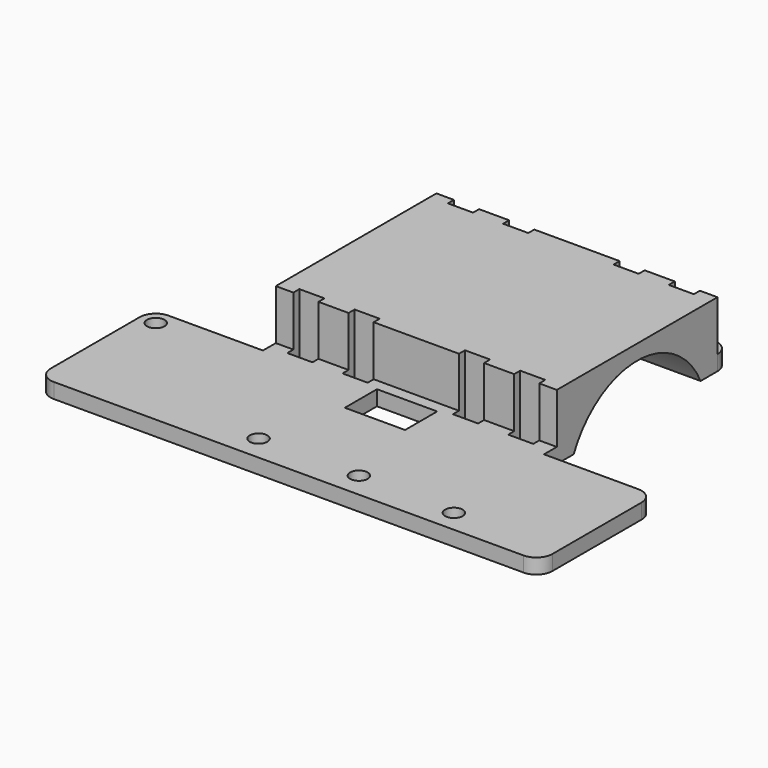
from build123d import *

# Parameters (mm, degrees)
F0_W     = 10
F0_H     = 40
F1_DEPTH = 3
F2_DEPTH = 10
F4_DEPTH = 56
F5_DEPTH = 10
F6_START = -7
F0_R     = 1.75
F6_DEPTH = 3
F7_R     = 3.2


with BuildPart() as f1:
    # F0 (on Top) → F1 (new body)
    with BuildSketch(Plane.XY):
        with Locations((0, 14.3)):
            Rectangle(F0_W, F0_H)
        Polygon((-28, 14.3), (-28, -5.7), (-24.5, -5.7), (-24.5, -4.2), (-19.5, -4.2), (-19.5, -5.7), (-13.5, -5.7), (-13.5, -4.2), (-8.5, -4.2), (-8.5, -5.7), (-5, -5.7), (-5, 34.3), (-8.5, 34.3), (-8.5, 32.8), (-13.5, 32.8), (-13.5, 34.3), (-19.5, 34.3), (-19.5, 32.8), (-24.5, 32.8), (-24.5, 34.3), (-28, 34.3), align=None)
        Polygon((24.5, -5.7), (28, -5.7), (28, 34.3), (24.5, 34.3), (24.5, 32.8), (19.5, 32.8), (19.5, 34.3), (13.5, 34.3), (13.5, 32.8), (8.5, 32.8), (8.5, 34.3), (5, 34.3), (5, -5.7), (8.5, -5.7), (8.5, -4.2), (13.5, -4.2), (13.5, -5.7), (19.5, -5.7), (19.5, -4.2), (24.5, -4.2), align=None)
    extrude(amount=F1_DEPTH)

    # F0 (on Top) → F2 (join)
    with BuildSketch(Plane.XY):
        Polygon((-28, 14.3), (-28, -5.7), (-24.5, -5.7), (-24.5, -4.2), (-19.5, -4.2), (-19.5, -5.7), (-13.5, -5.7), (-13.5, -4.2), (-8.5, -4.2), (-8.5, -5.7), (-5, -5.7), (-5, 34.3), (-8.5, 34.3), (-8.5, 32.8), (-13.5, 32.8), (-13.5, 34.3), (-19.5, 34.3), (-19.5, 32.8), (-24.5, 32.8), (-24.5, 34.3), (-28, 34.3), align=None)
        Polygon((24.5, -5.7), (28, -5.7), (28, 34.3), (24.5, 34.3), (24.5, 32.8), (19.5, 32.8), (19.5, 34.3), (13.5, 34.3), (13.5, 32.8), (8.5, 32.8), (8.5, 34.3), (5, 34.3), (5, -5.7), (8.5, -5.7), (8.5, -4.2), (13.5, -4.2), (13.5, -5.7), (19.5, -5.7), (19.5, -4.2), (24.5, -4.2), align=None)
    extrude(amount=-F2_DEPTH)

    # F3 (on face) → F4 (cut, through all)
    with BuildSketch(Plane.YZ.offset(28)):
        with BuildLine():
            Line((-1.5113883008, -10), (30.1113883008, -10))
            ThreePointArc((30.1113883008, -10), (14.3, 0), (-1.5113883008, -10))
        make_face()
    extrude(amount=-F4_DEPTH, mode=Mode.SUBTRACT)

    # F0 (on Top) → F5 (join, through all)
    with BuildSketch(Plane.XY):
        with Locations((0, 14.3)):
            Rectangle(F0_W, F0_H)
    extrude(amount=-F5_DEPTH)

    # F0 (on Top) → F6 (join)
    with BuildSketch(Plane.XY.offset(F6_START)):
        Polygon((-28, 37.5), (-28, 34.3), (-24.5, 34.3), (-24.5, 35.8), (-19.5, 35.8), (-19.5, 34.3), (-13.5, 34.3), (-13.5, 35.8), (-8.5, 35.8), (-8.5, 34.3), (-5, 34.3), (5, 34.3), (8.5, 34.3), (8.5, 35.8), (13.5, 35.8), (13.5, 34.3), (19.5, 34.3), (19.5, 35.8), (24.5, 35.8), (24.5, 34.3), (28, 34.3), (28, 37.5), align=None)
        Polygon((-28, -5.7), (-28, -8.9), (-6, -8.9), (-6, -8), (6, -8), (6, -8.9), (28, -8.9), (28, -5.7), (24.5, -5.7), (24.5, -7.2), (19.5, -7.2), (19.5, -5.7), (13.5, -5.7), (13.5, -7.2), (8.5, -7.2), (8.5, -5.7), (5, -5.7), (-5, -5.7), (-8.5, -5.7), (-8.5, -7.2), (-13.5, -7.2), (-13.5, -5.7), (-19.5, -5.7), (-19.5, -7.2), (-24.5, -7.2), (-24.5, -5.7), align=None)
        Polygon((-50, -37.5), (-28, -37.5), (0, -37.5), (28, -37.5), (50, -37.5), (50, -8.9), (28, -8.9), (6, -8.9), (6, -16), (-6, -16), (-6, -8.9), (-28, -8.9), (-50, -8.9), align=None)
        with Locations((-10, -32.5)):
            Circle(F0_R, mode=Mode.SUBTRACT)
        with Locations((-46.8, -12.1)):
            Circle(F0_R, mode=Mode.SUBTRACT)
        with Locations((10, -32.5)):
            Circle(F0_R, mode=Mode.SUBTRACT)
        with Locations((29.375, -33.055)):
            Circle(F0_R, mode=Mode.SUBTRACT)
    extrude(amount=-F6_DEPTH)

    # F7
    f7_edges = [f1.edges().sort_by_distance(p)[0] for p in [
        (28, 37.5, -8.5),
        (-28, 37.5, -8.5),
        (50, -8.9, -8.5),
        (50, -37.5, -8.5),
        (-50, -37.5, -8.5),
        (-50, -8.9, -8.5),
    ]]
    fillet(f7_edges, radius=F7_R)


solid = f1.part
